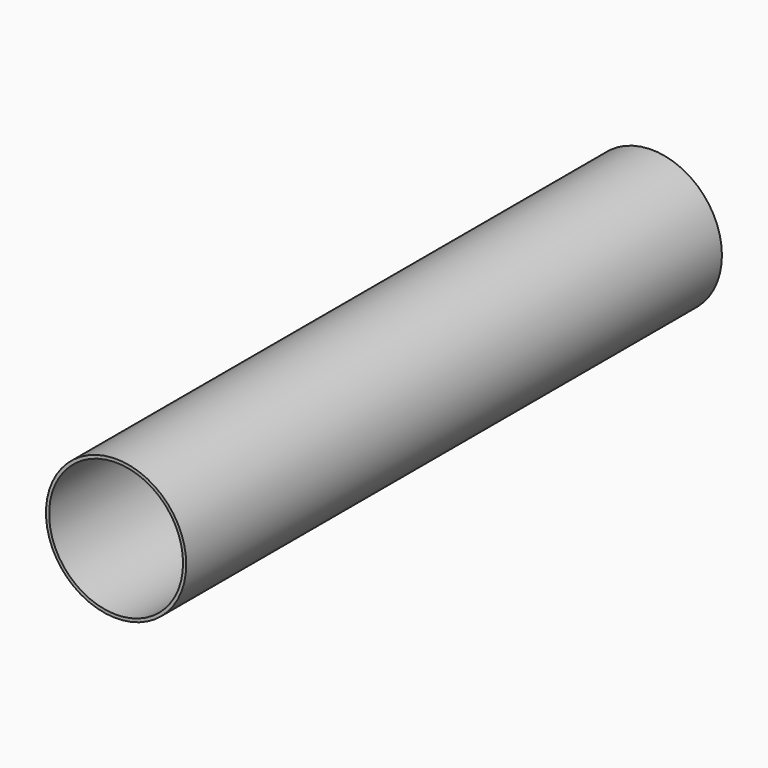
from build123d import *

# Parameters (mm, degrees)
F0_R     = 83.8
F0_R_2   = 80
F1_DEPTH = 800
F2_W     = 94.3220257759
F2_H     = 124.5050393045
F3_DEPTH = 84.8


with BuildPart() as f1:
    # F0 (on Front) → F1 (new body)
    with BuildSketch(Plane.XZ):
        Circle(F0_R)
        Circle(F0_R_2, mode=Mode.SUBTRACT)
    extrude(amount=F1_DEPTH)

    # F2 (on Top) → F3 (cut, up to face)
    with BuildSketch(Plane.XY):
        with Locations((0, -93.3787897229)):
            Rectangle(F2_W, F2_H)
    extrude(amount=-F3_DEPTH, mode=Mode.SUBTRACT)


solid = f1.part
